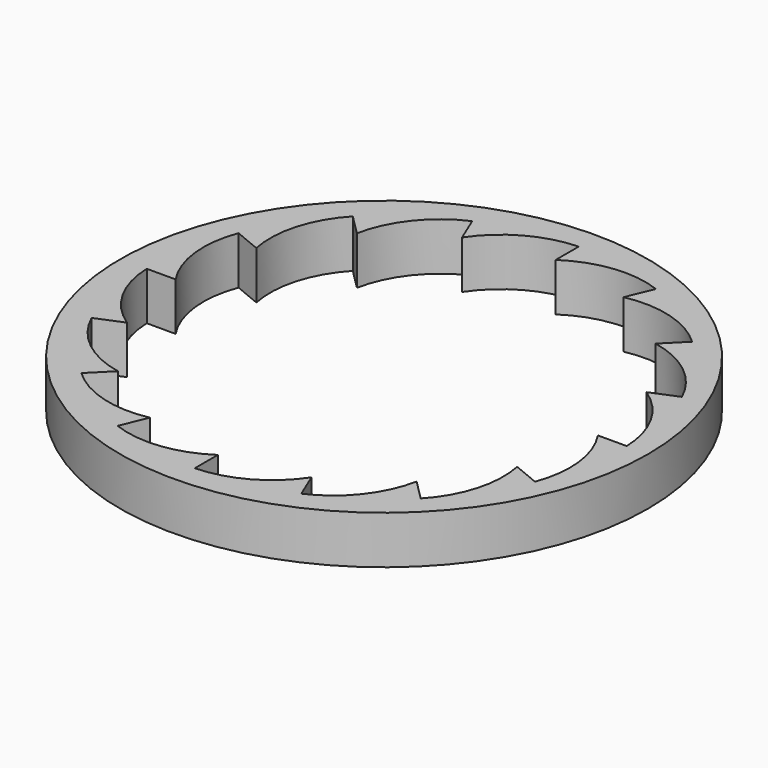
from build123d import *

# Parameters (mm, degrees)
F0_R     = 55
F1_DEPTH = 10


with BuildPart() as f1:
    # F0 (on Top) → F1 (new body)
    with BuildSketch(Plane.XY):
        with Locations((-0.49287, -0.078552)):
            Circle(F0_R)
        with BuildLine():
            Line((0, 50), (0, 44))
            ThreePointArc((0, 44), (9.300741, 47.419842), (19.134172, 46.193977))
            Line((19.134172, 46.193977), (16.838071, 40.650699))
            ThreePointArc((16.838071, 40.650699), (26.739552, 40.250982), (35.355339, 35.355339))
            Line((35.355339, 35.355339), (31.112698, 31.112698))
            ThreePointArc((31.112698, 31.112698), (40.107509, 26.954275), (46.193977, 19.134172))
            Line((46.193977, 19.134172), (40.650699, 16.838071))
            ThreePointArc((40.650699, 16.838071), (47.369461, 9.554024), (50, 0))
            Line((50, 0), (44, 0))
            ThreePointArc((44, 0), (47.419842, -9.300741), (46.193977, -19.134172))
            Line((46.193977, -19.134172), (40.650699, -16.838071))
            ThreePointArc((40.650699, -16.838071), (40.250982, -26.739552), (35.355339, -35.355339))
            Line((35.355339, -35.355339), (31.112698, -31.112698))
            ThreePointArc((31.112698, -31.112698), (26.954275, -40.107509), (19.134172, -46.193977))
            Line((19.134172, -46.193977), (16.838071, -40.650699))
            ThreePointArc((16.838071, -40.650699), (9.554024, -47.369461), (0, -50))
            Line((0, -50), (0, -44))
            ThreePointArc((0, -44), (-9.300741, -47.419842), (-19.134172, -46.193977))
            Line((-19.134172, -46.193977), (-16.838071, -40.650699))
            ThreePointArc((-16.838071, -40.650699), (-26.739552, -40.250982), (-35.355339, -35.355339))
            Line((-35.355339, -35.355339), (-31.112698, -31.112698))
            ThreePointArc((-31.112698, -31.112698), (-40.107509, -26.954275), (-46.193977, -19.134172))
            Line((-46.193977, -19.134172), (-40.650699, -16.838071))
            ThreePointArc((-40.650699, -16.838071), (-47.369461, -9.554024), (-50, 0))
            Line((-50, 0), (-44, 0))
            ThreePointArc((-44, 0), (-47.419842, 9.300741), (-46.193977, 19.134172))
            Line((-46.193977, 19.134172), (-40.650699, 16.838071))
            ThreePointArc((-40.650699, 16.838071), (-40.250982, 26.739552), (-35.355339, 35.355339))
            Line((-35.355339, 35.355339), (-31.112698, 31.112698))
            ThreePointArc((-31.112698, 31.112698), (-26.954275, 40.107509), (-19.134172, 46.193977))
            Line((-19.134172, 46.193977), (-16.838071, 40.650699))
            ThreePointArc((-16.838071, 40.650699), (-9.554024, 47.369461), (0, 50))
        make_face(mode=Mode.SUBTRACT)
    extrude(amount=F1_DEPTH)


solid = f1.part
